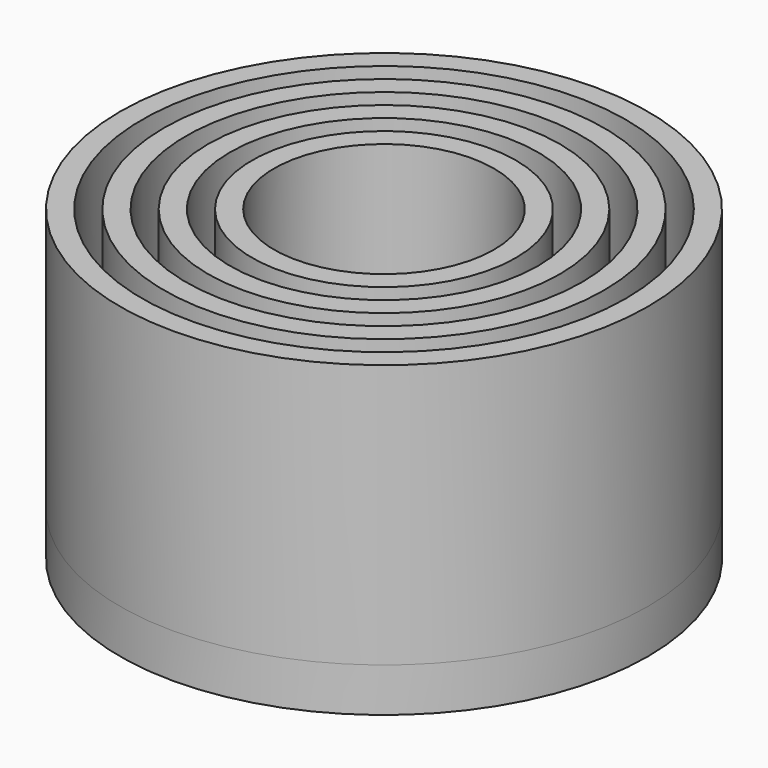
from build123d import *

# Parameters (mm, degrees)
F0_R     = 15
F0_R_2   = 12.5
F1_DEPTH = 30
F0_R_3   = 20
F0_R_4   = 17.5
F0_R_5   = 25
F0_R_6   = 22.5
F0_R_7   = 30
F0_R_8   = 27.5
F2_R     = 30
F2_R_2   = 12.5
F3_DEPTH = 5


with BuildPart() as f1:
    # F0 (on Top) → F1 (new body)
    with BuildSketch(Plane.XY):
        Circle(F0_R)
        Circle(F0_R_2, mode=Mode.SUBTRACT)
    extrude(amount=F1_DEPTH)


with BuildPart() as f1b:
    # F0 (on Top) → F1, piece 2 (new body)
    with BuildSketch(Plane.XY):
        Circle(F0_R_3)
        Circle(F0_R_4, mode=Mode.SUBTRACT)
    extrude(amount=F1_DEPTH)


with BuildPart() as f1c:
    # F0 (on Top) → F1, piece 3 (new body)
    with BuildSketch(Plane.XY):
        Circle(F0_R_5)
        Circle(F0_R_6, mode=Mode.SUBTRACT)
    extrude(amount=F1_DEPTH)


with BuildPart() as f1d:
    # F0 (on Top) → F1, piece 4 (new body)
    with BuildSketch(Plane.XY):
        Circle(F0_R_7)
        Circle(F0_R_8, mode=Mode.SUBTRACT)
    extrude(amount=F1_DEPTH)


with BuildPart() as f3:
    # F2 (on Top) → F3 (new body)
    with BuildSketch(Plane.XY):
        Circle(F2_R)
        Circle(F2_R_2, mode=Mode.SUBTRACT)
    extrude(amount=-F3_DEPTH)


solid = Compound([f1.part, f1b.part, f1c.part, f1d.part, f3.part])
